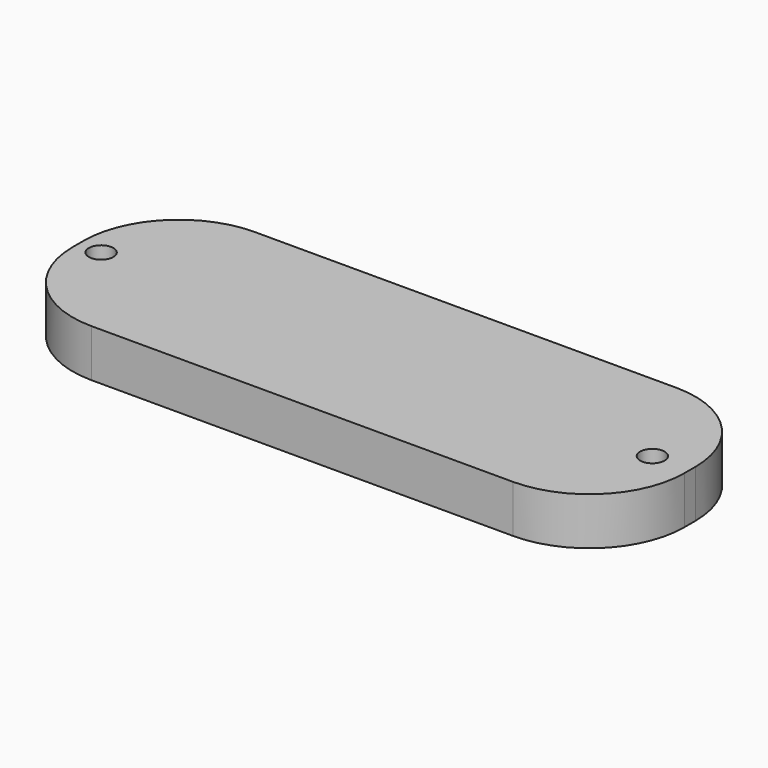
from build123d import *

# Parameters (mm, degrees)
F1_DEPTH = 3.5
F2_R     = 1.8
F3_DEPTH = 6
F4_R     = 1.8
F5_DEPTH = 6


with BuildPart() as f1:
    # F0 (on Top) → F1 (new body, symmetric)
    with BuildSketch(Plane.XY):
        with BuildLine():
            ThreePointArc((45, 1), (40.899495, 10.899495), (31, 15))
            Line((31, 15), (-31, 15))
            ThreePointArc((-31, 15), (-40.899495, 10.899495), (-45, 1))
            Line((-45, 1), (-45, -1))
            ThreePointArc((-45, -1), (-40.899495, -10.899495), (-31, -15))
            Line((-31, -15), (31, -15))
            ThreePointArc((31, -15), (40.899495, -10.899495), (45, -1))
            Line((45, -1), (45, 1))
        make_face()
    extrude(amount=F1_DEPTH, both=True)

    # F2 (on face) → F3 (cut)
    with BuildSketch(Plane.XY.offset(3.5)):
        with Locations((39.474629, 0)):
            Circle(F2_R)
    extrude(amount=-F3_DEPTH, mode=Mode.SUBTRACT)

    # F4 (on face) → F5 (cut)
    with BuildSketch(Plane.XY.offset(3.5)):
        with Locations((-41.609546, 0)):
            Circle(F4_R)
    extrude(amount=-F5_DEPTH, mode=Mode.SUBTRACT)


solid = f1.part
